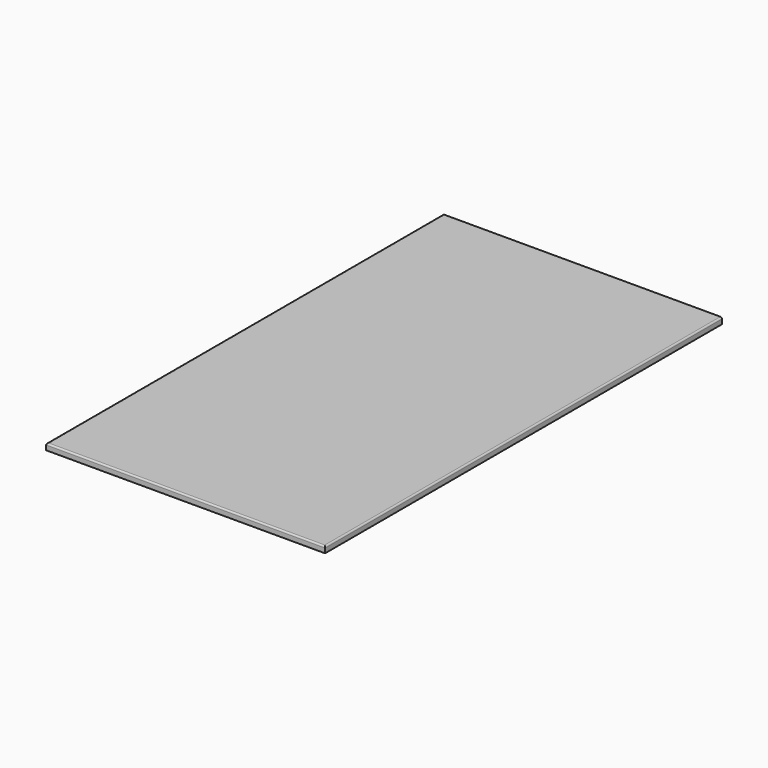
from build123d import *

# Parameters (mm, degrees)
F0_W     = 1143
F0_H     = 2032
F1_DEPTH = 25.4
F2_T     = -12.7
F3_R     = 6.35


with BuildPart() as f1:
    # F0 (on Top) → F1 (new body)
    with BuildSketch(Plane.XY):
        with Locations((571.5, 1016)):
            Rectangle(F0_W, F0_H)
    extrude(amount=F1_DEPTH)

    # F2
    f2_openings = [f1.faces().sort_by_distance(p)[0] for p in [
        (571.5, 1016, 0),
        (571.5, 2032, 12.7),
    ]]
    offset(amount=F2_T, openings=f2_openings)

    # F3
    f3_edges = [f1.edges().sort_by_distance(p)[0] for p in [
        (1143, 1016, 25.4),
        (571.5, 0, 25.4),
        (0, 1016, 25.4),
    ]]
    fillet(f3_edges, radius=F3_R)


solid = f1.part
